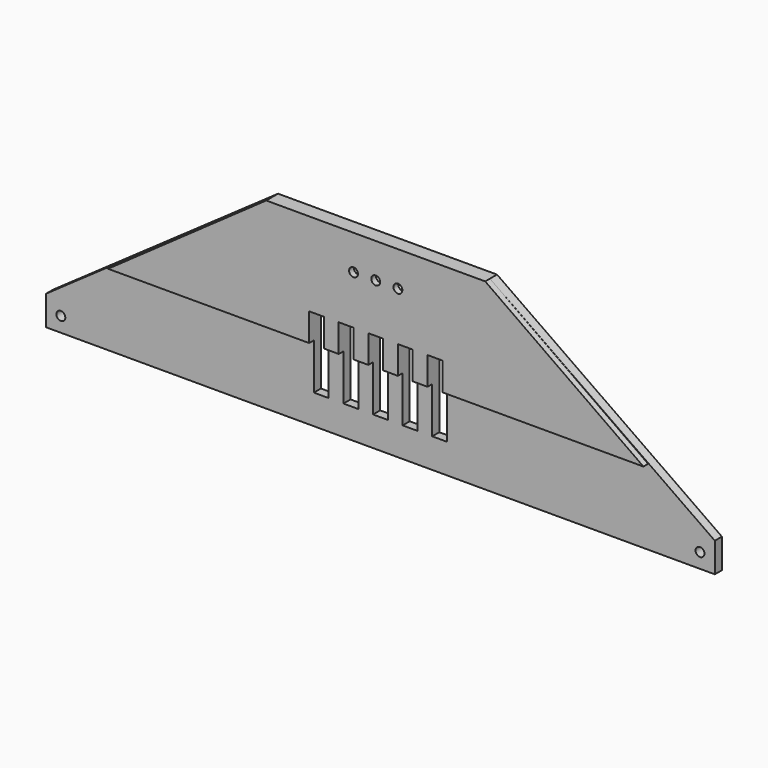
from build123d import *

# Parameters (mm, degrees)
PAD_DEPTH       = 5
SKETCH001_R     = 1.5
POCKET_DEPTH    = 5.001
SKETCH002_R     = 1.5
PAD001_DEPTH    = 2
POCKET001_DEPTH = 5
SKETCH004_W     = 5
SKETCH004_H     = 25
POCKET002_DEPTH = 7.001
SKETCH005_W     = 243.085243
SKETCH005_H     = 32.517023
POCKET003_DEPTH = 2
SKETCH006_W     = 324.151733
SKETCH006_H     = 177.952698
POCKET004_DEPTH = 2


with BuildPart() as part:
    # Sketch → Pad (new body)
    with BuildSketch(Plane.XZ):
        Polygon((-37, 63.25), (37, 63.25), (113, 10), (113, 0), (-113, 0), (-113, 10), align=None)
    extrude(amount=PAD_DEPTH)

    # Sketch001 (on Face8 of Pad) → Pocket (cut, through all)
    with BuildSketch(Plane.XZ.offset(5)):
        with Locations((-108, 5)):
            Circle(SKETCH001_R)
        with Locations((108, 5)):
            Circle(SKETCH001_R)
        with Locations((-7.5, 51.5)):
            Circle(SKETCH001_R)
        with Locations((0, 51.5)):
            Circle(SKETCH001_R)
        with Locations((7.5, 51.5)):
            Circle(SKETCH001_R)
    extrude(amount=-POCKET_DEPTH, mode=Mode.SUBTRACT)

    # Sketch002 (on Face5 of Pocket) → Pad001 (join)
    with BuildSketch(Plane.XZ.offset(5)):
        Polygon((-37, 63.25), (37, 63.25), (104.655786, 15.55), (-104.655786, 15.55), align=None)
        with Locations((-7.5, 51.5)):
            Circle(SKETCH002_R, mode=Mode.SUBTRACT)
        with Locations((0, 51.5)):
            Circle(SKETCH002_R, mode=Mode.SUBTRACT)
        with Locations((7.5, 51.5)):
            Circle(SKETCH002_R, mode=Mode.SUBTRACT)
    extrude(amount=PAD001_DEPTH)

    # Sketch003 (on Face4 of Pad001) → Pocket001 (cut)
    with BuildSketch(Plane(origin=(0, 0, 0), x_dir=(1, 0, 0), z_dir=(0, 1, 0))):
        with BuildLine():
            ThreePointArc((-7.5, -47.798047), (-11.201953, -51.5), (-7.5, -55.201953))
            Line((-7.5, -55.201953), (7.5, -55.201953))
            ThreePointArc((7.5, -55.201953), (11.201953, -51.5), (7.5, -47.798047))
            Line((7.5, -47.798047), (-7.5, -47.798047))
        make_face()
    extrude(amount=-POCKET001_DEPTH, mode=Mode.SUBTRACT)

    # Sketch004 (on Face4 of Pocket001) → Pocket002 (cut, through all)
    with BuildSketch(Plane(origin=(0, 0, 0), x_dir=(1, 0, 0), z_dir=(0, 1, 0))):
        with Locations((-20, -22.5)):
            Rectangle(SKETCH004_W, SKETCH004_H)
        with Locations((0, -22.5)):
            Rectangle(SKETCH004_W, SKETCH004_H)
        with Locations((10, -22.5)):
            Rectangle(SKETCH004_W, SKETCH004_H)
        with Locations((20, -22.5)):
            Rectangle(SKETCH004_W, SKETCH004_H)
        with Locations((-10, -22.5)):
            Rectangle(SKETCH004_W, SKETCH004_H)
    extrude(amount=-POCKET002_DEPTH, mode=Mode.SUBTRACT)

    # Sketch005 (on Face38 of Pocket002) → Pocket003 (cut)
    with BuildSketch(Plane.XZ.offset(7)):
        with Locations((0.109928, 9.291488)):
            Rectangle(SKETCH005_W, SKETCH005_H)
    extrude(amount=-POCKET003_DEPTH, mode=Mode.SUBTRACT)

    # Sketch006 (on Face4 of Pocket003) → Pocket004 (cut)
    with BuildSketch(Plane(origin=(0, 0, 0), x_dir=(1, 0, 0), z_dir=(0, 1, 0))):
        with Locations((27.792465, -47.893646)):
            Rectangle(SKETCH006_W, SKETCH006_H)
    extrude(amount=-POCKET004_DEPTH, mode=Mode.SUBTRACT)


solid = part.part
